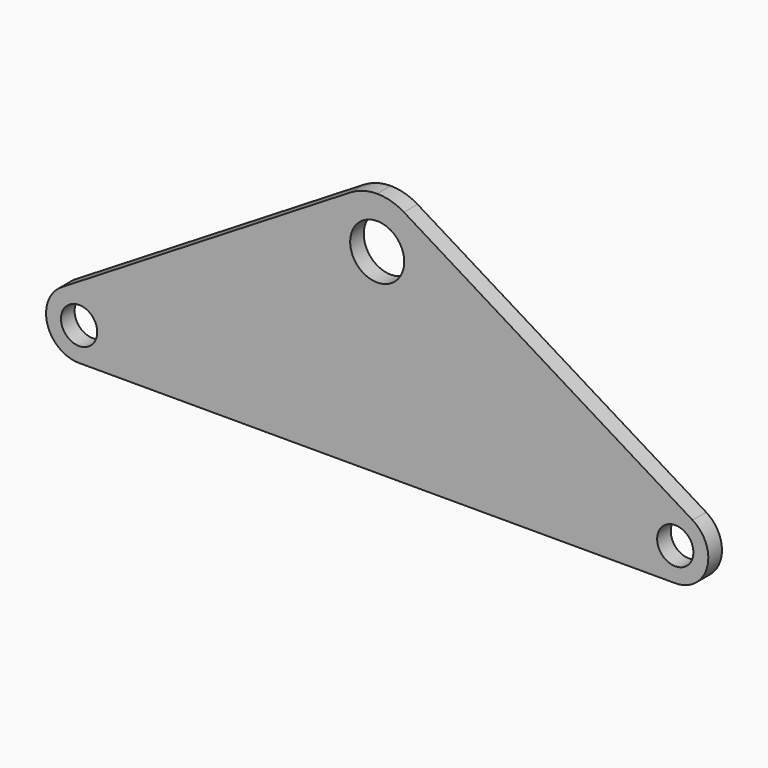
from build123d import *

# Parameters (mm, degrees)
F1_DEPTH = 3.175
F2_D     = 10.0838
F3_D     = 6.7564


with BuildPart() as f1:
    # F0 (on Front) → F1 (new body)
    with BuildSketch(Plane.XZ):
        with BuildLine():
            Line((-4.9834776765, 44.439300983), (-58.7851488975, 11.408687969))
            ThreePointArc((-58.7851488975, 11.408687969), (-61.490054873, 4.4851244515), (-55.5625, 0))
            Line((-55.5625, 0), (0, 0))
            Line((0, 0), (55.5625, 0))
            ThreePointArc((55.5625, 0), (61.490054873, 4.4851244515), (58.7851488975, 11.408687969))
            Line((58.7851488975, 11.408687969), (4.9834776765, 44.439300983))
            ThreePointArc((4.9834776765, 44.439300983), (2.589240539, 45.4883219686), (0, 45.847))
            ThreePointArc((0, 45.847), (-2.589240539, 45.4883219686), (-4.9834776765, 44.439300983))
        make_face()
    extrude(amount=F1_DEPTH)

    # F2 (through all)
    with Locations(Plane(origin=(0, 0, 0), x_dir=(1, 0, 0), z_dir=(0, 1, 0))):
        with Locations((0, -36.322)):
            Hole(F2_D / 2)

    # F3 (through all)
    with Locations(Plane(origin=(0, 0, 0), x_dir=(1, 0, 0), z_dir=(0, 1, 0))):
        with Locations((55.5625, -6.1595), (-55.5625, -6.1595)):
            Hole(F3_D / 2)


solid = f1.part
